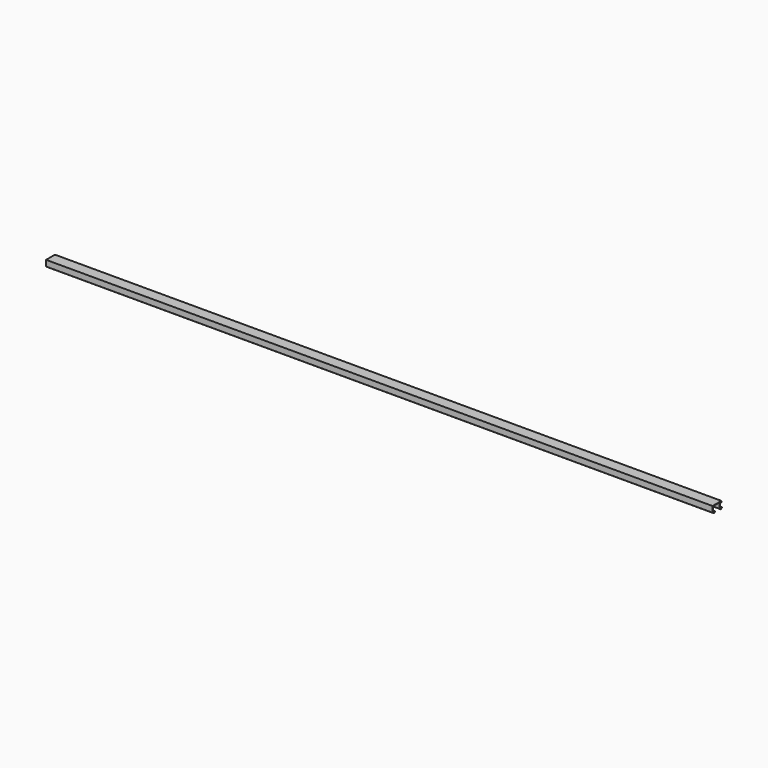
from build123d import *

# Parameters (mm, degrees)
F1_DEPTH = 2995


with BuildPart() as f1:
    # F0 (on Right) → F1 (new body)
    with BuildSketch(Plane.YZ):
        Polygon((-36, -25.600415), (-36, -23.600415), (-38, -23.600415), (-38, -24.559281), (-42, -27.360111), (-48, -23.158866), (-48, 0.39834), (-40.6, 0.39834), (-40.6, -2.60166), (-38.6, -2.60166), (-38.6, 0.39834), (-11.4, 0.39834), (-11.4, -24.2), (-3.4, -29.80166), (2.6, -25.600415), (2.6, -23.600415), (0.6, -23.600415), (0.6, -24.559281), (-3.4, -27.360111), (-9.4, -23.158866), (-9.4, 0.39834), (-2, 0.39834), (-2, -2.60166), (0, -2.60166), (0, 2.39834), (-50, 2.39834), (-50, -24.2), (-42, -29.80166), align=None)
    extrude(amount=F1_DEPTH)


solid = f1.part
